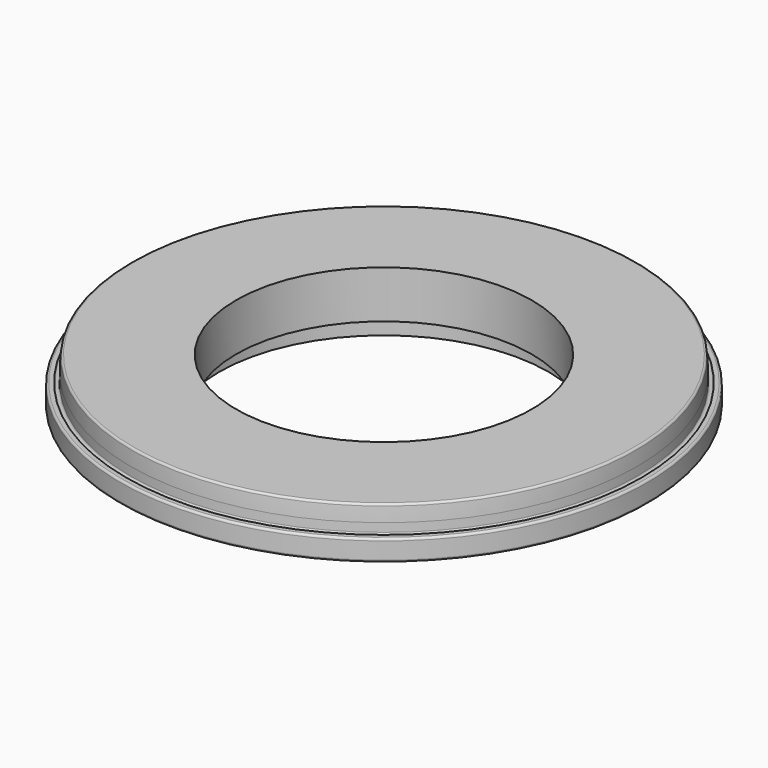
from build123d import *


with BuildPart() as f1:
    # F0 (on Front) → F1 (revolve)
    with BuildSketch(Plane.XZ):
        with BuildLine():
            ThreePointArc((-124, 5), (-124.707107, 4.707107), (-125, 4))
            Line((-125, 4), (-125, -4))
            ThreePointArc((-125, -4), (-124.707107, -4.707107), (-124, -5))
            Line((-124, -5), (-78, -15.922228))
            Line((-78, -15.922228), (-78, -5.922228))
            Line((-78, -5.922228), (-70, -5.922228))
            Line((-70, -5.922228), (-70, 16.597387))
            Line((-70, 16.597387), (-118.527193, 16.597387))
            ThreePointArc((-118.527193, 16.597387), (-119.202081, 16.335307), (-119.52322, 15.68644))
            ThreePointArc((-119.52322, 15.68644), (-119.77497, 12.345528), (-119.933352, 8.998889))
            Line((-119.933352, 8.998889), (-120, 5))
            ThreePointArc((-120, 5), (-120.999975, 4.007173), (-121.999949, 5))
            Line((-121.999949, 5), (-124, 5))
        make_face()
    revolve(axis=Axis((0, 0, 10.798693), (0, 0, 1)))


solid = f1.part
